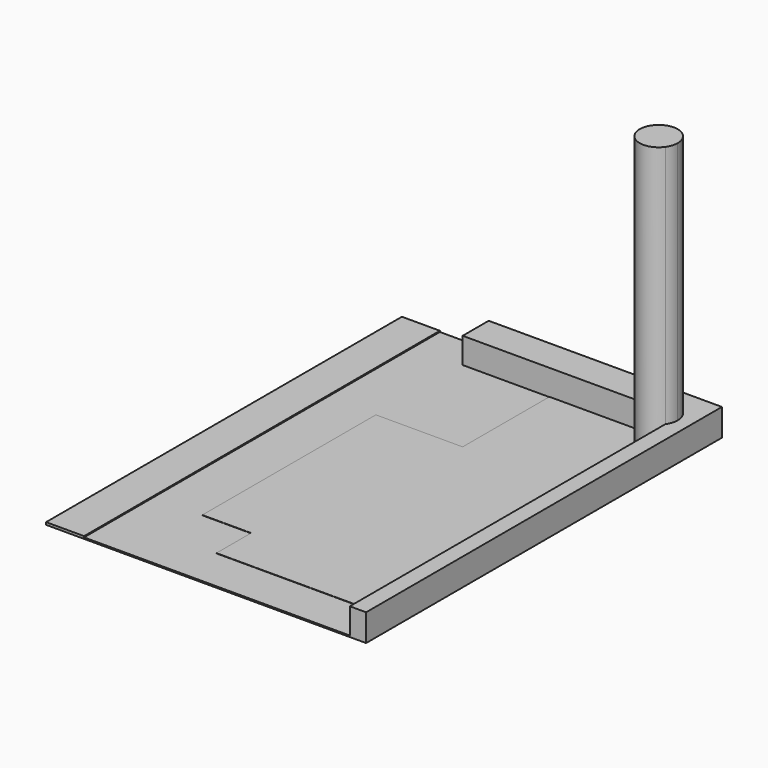
from build123d import *

# Parameters (mm, degrees)
F1_DEPTH = 500
F2_DEPTH = 25
F0_W     = 700
F0_H     = 8200
F3_DEPTH = 45
F4_DEPTH = 30
F5_DEPTH = 5000


with BuildPart() as f1:
    # F0 (on Top) → F1 (new body)
    with BuildSketch(Plane.XY):
        with BuildLine():
            Line((5600, 0), (1600, 0))
            Line((1600, 0), (1600, -600))
            Line((1600, -600), (3200, -600))
            Line((3200, -600), (4988.719512, -600))
            ThreePointArc((4988.719512, -600), (5271.240052, -378.814865), (5600, -522.542444))
            Line((5600, -522.542444), (5600, 0))
        make_face()
        with BuildLine():
            Line((5900, 0), (5600, 0))
            Line((5600, 0), (5600, -522.542444))
            ThreePointArc((5600, -522.542444), (5648.529688, -619.189672), (5665.237999, -726.038396))
            ThreePointArc((5665.237999, -726.038396), (5648.529688, -832.88712), (5600, -929.534349))
            Line((5600, -929.534349), (5600, -7400))
            Line((5600, -7400), (5600, -8200))
            Line((5600, -8200), (5900, -8200))
            Line((5900, -8200), (5900, 0))
        make_face()
    extrude(amount=F1_DEPTH)


with BuildPart() as f2:
    # F0 (on Top) → F2 (new body)
    with BuildSketch(Plane.XY):
        Polygon((1600, 0), (700, 0), (700, -8200), (5600, -8200), (5600, -7400), (2500, -7400), (2500, -6600), (1600, -6600), (1600, -2600), (3200, -2600), (3200, -600), (1600, -600), align=None)
    extrude(amount=F2_DEPTH)


with BuildPart() as f3:
    # F0 (on Top) → F3 (new body)
    with BuildSketch(Plane.XY):
        with Locations((350, -4100)):
            Rectangle(F0_W, F0_H)
    extrude(amount=F3_DEPTH)


with BuildPart() as f4:
    # F0 (on Top) → F4 (new body)
    with BuildSketch(Plane.XY):
        with BuildLine():
            Line((4988.719512, -600), (3200, -600))
            Line((3200, -600), (3200, -2600))
            Line((3200, -2600), (1600, -2600))
            Line((1600, -2600), (1600, -6600))
            Line((1600, -6600), (2500, -6600))
            Line((2500, -6600), (2500, -7400))
            Line((2500, -7400), (5600, -7400))
            Line((5600, -7400), (5600, -929.534349))
            ThreePointArc((5600, -929.534349), (5149.153313, -1034.122601), (4988.719512, -600))
        make_face()
    extrude(amount=F4_DEPTH)


with BuildPart() as f5:
    # F0 (on Top) → F5 (new body)
    with BuildSketch(Plane.XY):
        with BuildLine():
            Line((5600, -929.534349), (5600, -600))
            Line((5600, -600), (4988.719512, -600))
            ThreePointArc((4988.719512, -600), (5149.153313, -1034.122601), (5600, -929.534349))
        make_face()
        with BuildLine():
            ThreePointArc((5665.237999, -726.038396), (5648.529688, -619.189672), (5600, -522.542444))
            Line((5600, -522.542444), (5600, -600))
            Line((5600, -600), (5600, -929.534349))
            ThreePointArc((5600, -929.534349), (5648.529688, -832.88712), (5665.237999, -726.038396))
        make_face()
        with BuildLine():
            Line((5600, -600), (5600, -522.542444))
            ThreePointArc((5600, -522.542444), (5271.240052, -378.814865), (4988.719512, -600))
            Line((4988.719512, -600), (5600, -600))
        make_face()
    extrude(amount=F5_DEPTH)


solid = Compound([f1.part, f2.part, f3.part, f4.part, f5.part])
